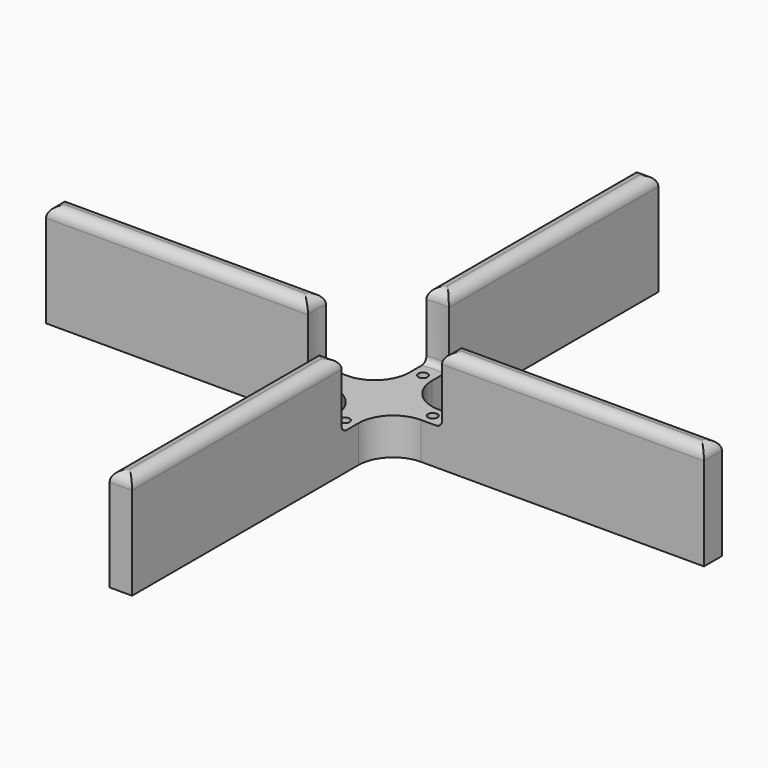
from build123d import *

# Parameters (mm, degrees)
SKETCH006_R     = 1.6
PAD003_DEPTH    = 22.5
SKETCH023_W     = 224
SKETCH023_H     = 224
POCKET006_DEPTH = 10
SKETCH025_R     = 23
POCKET007_DEPTH = 22.5
FILLET_R        = 2
FILLET010_R     = 3.6


with BuildPart() as part:
    # Sketch006 (on Face23 of Pad) → Pad003 (new body, symmetric)
    with BuildSketch(Plane(origin=(0, 0, -2), x_dir=(1, 0, 0), z_dir=(0, 0, -1))):
        with BuildLine():
            Line((-111.4, -3.8), (-15.556349, -3.8))
            ThreePointArc((-3.8, -15.556349), (-7.243355, -7.243355), (-15.556349, -3.8))
            Line((-3.8, -111.4), (-3.8, -15.556349))
            Line((3.8, -111.4), (-3.8, -111.4))
            Line((3.8, -111.4), (3.8, -15.556349))
            ThreePointArc((15.556349, -3.8), (7.243355, -7.243355), (3.8, -15.556349))
            Line((111.4, -3.8), (15.556349, -3.8))
            Line((111.4, -3.8), (111.4, 3.8))
            Line((111.4, 3.8), (15.556349, 3.8))
            ThreePointArc((3.8, 15.556349), (7.243355, 7.243355), (15.556349, 3.8))
            Line((3.8, 111.4), (3.8, 15.556349))
            Line((-3.8, 111.4), (3.8, 111.4))
            Line((-3.8, 111.4), (-3.8, 15.556349))
            ThreePointArc((-15.556349, 3.8), (-7.243355, 7.243355), (-3.8, 15.556349))
            Line((-111.4, 3.8), (-15.556349, 3.8))
            Line((-111.4, 3.8), (-111.4, -3.8))
        make_face()
        with Locations((-16.5, 0)):
            Circle(SKETCH006_R, mode=Mode.SUBTRACT)
        with Locations((0, -16.5)):
            Circle(SKETCH006_R, mode=Mode.SUBTRACT)
        with Locations((16.5, 0)):
            Circle(SKETCH006_R, mode=Mode.SUBTRACT)
        with Locations((0, 16.5)):
            Circle(SKETCH006_R, mode=Mode.SUBTRACT)
    extrude(amount=PAD003_DEPTH, both=True)

    # Sketch023 → Pocket006 (cut)
    with BuildSketch(Plane(origin=(0, 0, -24.5), x_dir=(1, 0, 0), z_dir=(0, 0, -1))):
        Rectangle(SKETCH023_W, SKETCH023_H)
    extrude(amount=-POCKET006_DEPTH, mode=Mode.SUBTRACT)

    # Sketch025 → Pocket007 (cut)
    with BuildSketch(Plane.XY.offset(20.5)):
        Circle(SKETCH025_R)
    extrude(amount=-POCKET007_DEPTH, mode=Mode.SUBTRACT)

    # Fillet
    fillet_edges = [part.edges().sort_by_distance(p)[0] for p in [
        (0, -23, -2),
        (0, 23, -2),
        (22.920843, 1.906562, -2),
        (-23, 0, -2),
    ]]
    fillet(fillet_edges, radius=FILLET_R)

    # Fillet010
    fillet010_edges = [part.edges().sort_by_distance(p)[0] for p in [
        (0, 23, 20.5),
        (3.8, 67.041958, 20.5),
        (0, 111.4, 20.5),
        (-3.8, 67.041958, 20.5),
        (67.041958, -3.8, 20.5),
        (111.4, 0, 20.5),
        (67.041958, 3.8, 20.5),
        (22.920843, 1.906562, 20.5),
        (22.920843, -1.906562, 20.5),
        (-3.8, -67.041958, 20.5),
        (0, -111.4, 20.5),
        (3.8, -67.041958, 20.5),
        (0, -23, 20.5),
        (-67.041958, -3.8, 20.5),
        (-23, 0, 20.5),
        (-67.041958, 3.8, 20.5),
        (-111.4, 0, 20.5),
    ]]
    fillet(fillet010_edges, radius=FILLET010_R)


solid = part.part
